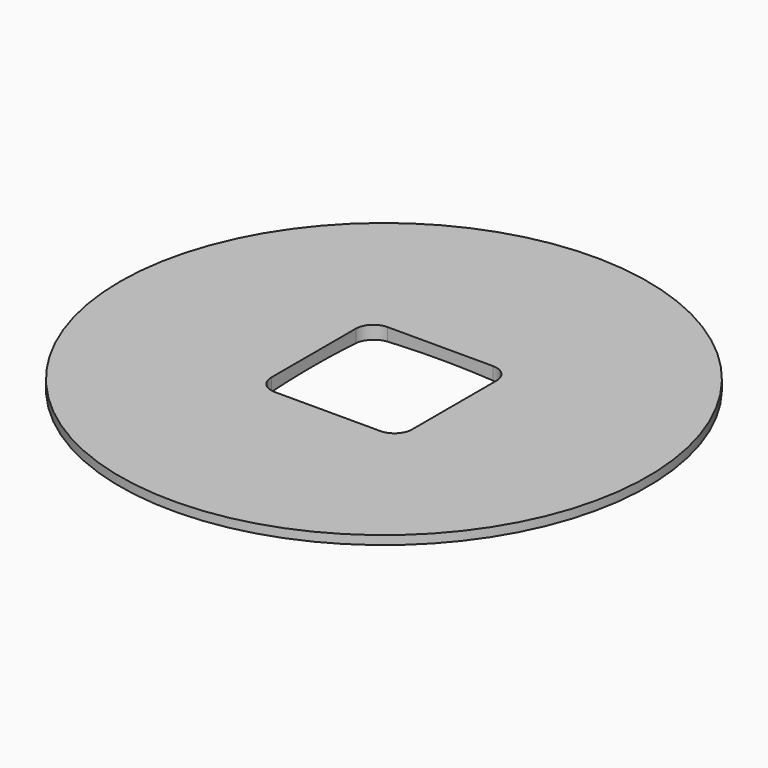
from build123d import *

# Parameters (mm, degrees)
POCKET060_DEPTH       = 100
SKETCH263_R           = 2
PAD089_DEPTH          = 4
POLARPATTERN001_COUNT = 4


with BuildPart() as part:
    # Sketch113 → Revolution002 (revolve)
    with BuildSketch(Plane.XZ):
        with BuildLine():
            ThreePointArc((0, 16), (-22.1147575162, 14.8720734917), (-44, 11.5))
            Line((-44, 11.5), (-44, 16))
            Line((-44, 16), (-60, 16))
            Line((-60, 16), (-60, 18))
            Line((0, 18), (-60, 18))
            Line((0, 16), (0, 18))
        make_face()
    revolve(axis=Axis((0, 0, 0), (0, 0, 1)))

    # Sketch114 → Pocket060 (cut)
    with BuildSketch(Plane.XY):
        with BuildLine():
            Line((-12, 16), (12, 16))
            ThreePointArc((16, 12), (14.8284271247, 14.8284271247), (12, 16))
            Line((16, 12), (16, -12))
            ThreePointArc((12, -16), (14.8284271247, -14.8284271247), (16, -12))
            Line((12, -16), (-12, -16))
            ThreePointArc((-16, -12), (-14.8284271247, -14.8284271247), (-12, -16))
            Line((-16, -12), (-16, 12))
            ThreePointArc((-12, 16), (-14.8284271247, 14.8284271247), (-16, 12))
        make_face()
    extrude(amount=POCKET060_DEPTH, mode=Mode.SUBTRACT)

    # Sketch263 → Pad089 (join)
    with BuildSketch(Plane.XY.offset(14.5)):
        with Locations((25.4558441227, 25.4558441227)):
            Circle(SKETCH263_R)
    pad089 = extrude(amount=-PAD089_DEPTH)

    # PolarPattern001: Pad089 ×4 about axis
    polarpattern001_axis = Axis((0, 0, 14.5), (0, 0, 1))
    for i in range(1, POLARPATTERN001_COUNT):
        add(pad089.rotate(polarpattern001_axis, i * 360 / POLARPATTERN001_COUNT))


solid = part.part
